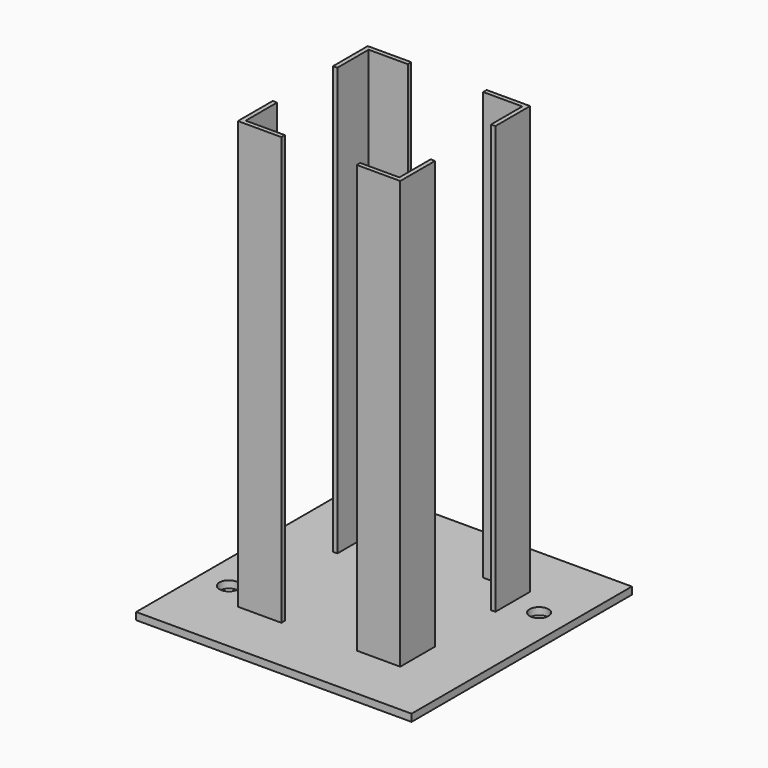
from build123d import *

# Parameters (mm, degrees)
F0_W     = 190
F0_H     = 190
F0_R     = 6.5
F1_DEPTH = 5
F2_DEPTH = 300


with BuildPart() as f1:
    # F0 (on Top) → F1 (new body)
    with BuildSketch(Plane.XY):
        Rectangle(F0_W, F0_H)
        with Locations((-75, -40)):
            Circle(F0_R, mode=Mode.SUBTRACT)
        Polygon((-56, -56), (-56, -26), (-53, -26), (-53, -53), (-26, -53), (-26, -56), align=None, mode=Mode.SUBTRACT)
        Polygon((53, -26), (56, -26), (56, -56), (26, -56), (26, -53), (53, -53), align=None, mode=Mode.SUBTRACT)
        Polygon((-56, 26), (-56, 56), (-26, 56), (-26, 53), (-53, 53), (-53, 26), align=None, mode=Mode.SUBTRACT)
        Polygon((26, 53), (26, 56), (56, 56), (56, 26), (53, 26), (53, 53), align=None, mode=Mode.SUBTRACT)
        with Locations((75, 40)):
            Circle(F0_R, mode=Mode.SUBTRACT)
    extrude(amount=F1_DEPTH)

    # F0 (on Top) → F2 (join)
    with BuildSketch(Plane.XY):
        Polygon((-53, -26), (-56, -26), (-56, -56), (-26, -56), (-26, -53), (-53, -53), align=None)
        Polygon((56, -56), (56, -26), (53, -26), (53, -53), (26, -53), (26, -56), align=None)
        Polygon((56, 56), (26, 56), (26, 53), (53, 53), (53, 26), (56, 26), align=None)
        Polygon((-26, 56), (-56, 56), (-56, 26), (-53, 26), (-53, 53), (-26, 53), align=None)
    extrude(amount=F2_DEPTH)


solid = f1.part
